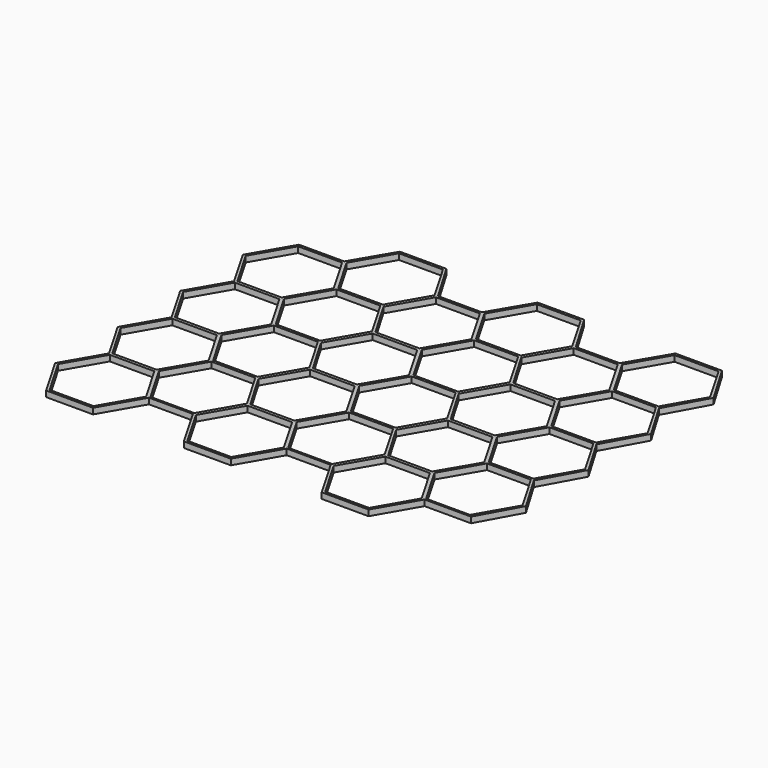
from build123d import *

# Parameters (mm, degrees)
PAD_DEPTH                 = 2
PAD_LINEARPATTERN_2_DEPTH = 2
PAD_LINEARPATTERN_3_DEPTH = 2
LINEARPATTERN001_COUNT    = 4
LINEARPATTERN001_PITCH    = 26.666667


with BuildPart() as part:
    # Sketch → Pad (new body)
    with BuildSketch(Plane.XY):
        Polygon((7.488891, 13.894065), (-7.934416, 13.894065), (-16, 0), (-8, -13.856406), (8, -13.856406), (16, 0), (31.852406, 0), (39.484819, 13.894065), (31.413057, 27.537577), (15.560652, 27.537577), align=None)
        Polygon((-15, 0), (-7.5, -12.990381), (7.5, -12.990381), (15, 0), (7.5, 12.990381), (-7.5, 12.990381), align=None, mode=Mode.SUBTRACT)
        Polygon((8.486855, 13.638825), (15.986855, 0.648444), (30.986855, 0.648444), (38.486855, 13.638825), (30.986855, 26.629206), (15.986855, 26.629206), align=None, mode=Mode.SUBTRACT)
    pad = extrude(amount=PAD_DEPTH)

    # Sketch LinearPattern 2 → Pad LinearPattern 2 (add)
    with BuildSketch(Plane(origin=(47, 0, 0), x_dir=(1, 0, 0), z_dir=(0, 0, 1))):
        Polygon((7.488891, 13.894065), (-7.934416, 13.894065), (-16, 0), (-8, -13.856406), (8, -13.856406), (16, 0), (31.852406, 0), (39.484819, 13.894065), (31.413057, 27.537577), (15.560652, 27.537577), align=None)
        Polygon((-15, 0), (-7.5, -12.990381), (7.5, -12.990381), (15, 0), (7.5, 12.990381), (-7.5, 12.990381), align=None, mode=Mode.SUBTRACT)
        Polygon((8.486855, 13.638825), (15.986855, 0.648444), (30.986855, 0.648444), (38.486855, 13.638825), (30.986855, 26.629206), (15.986855, 26.629206), align=None, mode=Mode.SUBTRACT)
    pad_linearpattern_2 = extrude(amount=PAD_LINEARPATTERN_2_DEPTH)

    # Sketch LinearPattern 3 → Pad LinearPattern 3 (add)
    with BuildSketch(Plane(origin=(94, 0, 0), x_dir=(1, 0, 0), z_dir=(0, 0, 1))):
        Polygon((7.488891, 13.894065), (-7.934416, 13.894065), (-16, 0), (-8, -13.856406), (8, -13.856406), (16, 0), (31.852406, 0), (39.484819, 13.894065), (31.413057, 27.537577), (15.560652, 27.537577), align=None)
        Polygon((-15, 0), (-7.5, -12.990381), (7.5, -12.990381), (15, 0), (7.5, 12.990381), (-7.5, 12.990381), align=None, mode=Mode.SUBTRACT)
        Polygon((8.486855, 13.638825), (15.986855, 0.648444), (30.986855, 0.648444), (38.486855, 13.638825), (30.986855, 26.629206), (15.986855, 26.629206), align=None, mode=Mode.SUBTRACT)
    pad_linearpattern_3 = extrude(amount=PAD_LINEARPATTERN_3_DEPTH)

    # LinearPattern001: Pad, Pad LinearPattern 2, Pad LinearPattern 3 ×4
    with Locations(*[(0, i * LINEARPATTERN001_PITCH, 0) for i in range(1, LINEARPATTERN001_COUNT)]):
        add(pad)
        add(pad_linearpattern_2)
        add(pad_linearpattern_3)


solid = part.part
